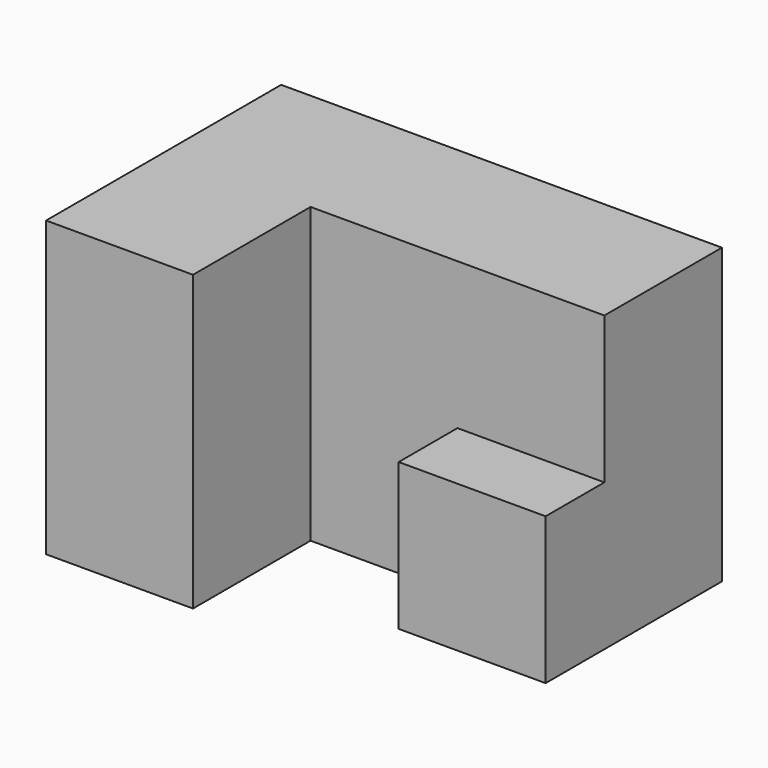
from build123d import *

# Parameters (mm, degrees)
F0_W     = 12.7
F0_H     = 25.4
F0_H_2   = 12.7
F1_DEPTH = 12.7
F2_DEPTH = 25.4
F3_DEPTH = 19.05


with BuildPart() as f1:
    # F0 (on Front) → F1 (new body)
    with BuildSketch(Plane.XZ):
        with Locations((6.35, 12.7)):
            Rectangle(F0_W, F0_H)
        Polygon((12.7, 25.4), (12.7, 0), (25.4, 0), (25.4, 12.7), (38.1, 12.7), (38.1, 25.4), align=None)
        with Locations((31.75, 6.35)):
            Rectangle(F0_W, F0_H_2)
    extrude(amount=F1_DEPTH)

    # F0 (on Front) → F2 (join)
    with BuildSketch(Plane.XZ):
        with Locations((6.35, 12.7)):
            Rectangle(F0_W, F0_H)
    extrude(amount=F2_DEPTH)

    # F0 (on Front) → F3 (join)
    with BuildSketch(Plane.XZ):
        with Locations((31.75, 6.35)):
            Rectangle(F0_W, F0_H_2)
    extrude(amount=F3_DEPTH)


solid = f1.part
